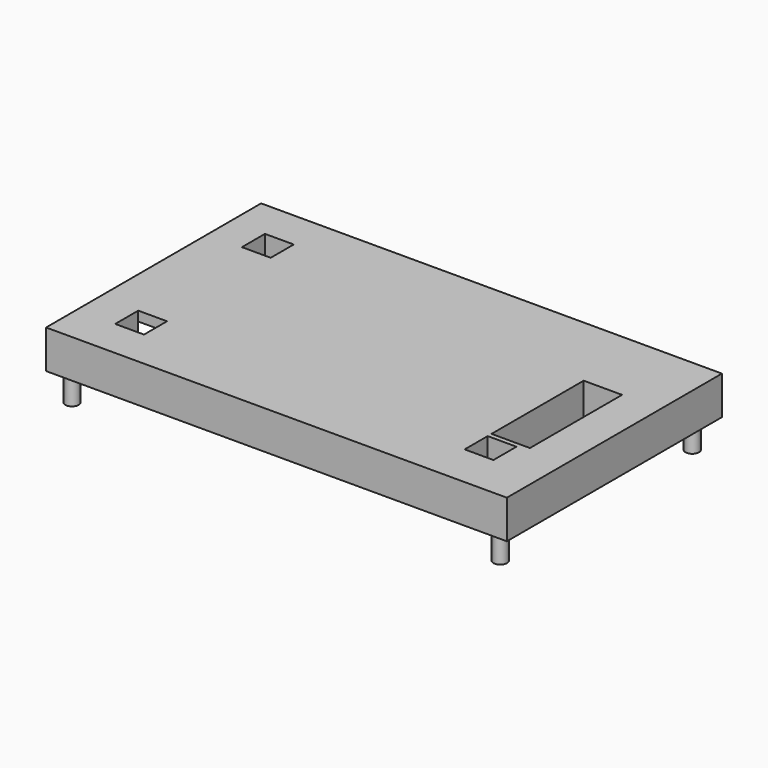
from build123d import *

# Parameters (mm, degrees)
SKETCH_W        = 48
SKETCH_H        = 28
PAD_DEPTH       = 4
SKETCH001_W     = 14
SKETCH001_H     = 3
POCKET_DEPTH    = 15
SKETCH002_W     = 4
SKETCH002_H     = 12
SKETCH002_W_2   = 3
SKETCH002_H_2   = 3
POCKET001_DEPTH = 4.001
SKETCH003_R     = 0.7
PAD001_DEPTH    = 3


with BuildPart() as part:
    # Sketch → Pad (new body)
    with BuildSketch(Plane.XY):
        with Locations((24, 14)):
            Rectangle(SKETCH_W, SKETCH_H)
    extrude(amount=PAD_DEPTH)

    # Sketch001 → Pocket (cut)
    with BuildSketch(Plane(origin=(0, 0, 0), x_dir=(0, -1, 0), z_dir=(-1, 0, 0))):
        with Locations((-14, 1.5)):
            Rectangle(SKETCH001_W, SKETCH001_H)
    extrude(amount=-POCKET_DEPTH, mode=Mode.SUBTRACT)

    # Sketch002 → Pocket001 (cut, through all)
    with BuildSketch(Plane.XY.offset(4)):
        with Locations((42, 14)):
            Rectangle(SKETCH002_W, SKETCH002_H)
        with Locations((41.5, 6)):
            Rectangle(SKETCH002_W_2, SKETCH002_H_2)
        with Locations((5.5, 5.5)):
            Rectangle(SKETCH002_W_2, SKETCH002_H_2)
        with Locations((5.098741, 22.5)):
            Rectangle(SKETCH002_W_2, SKETCH002_H_2)
    extrude(amount=-POCKET001_DEPTH, mode=Mode.SUBTRACT)

    # Sketch003 → Pad001 (new body)
    with BuildSketch(Plane(origin=(0, 0, 0), x_dir=(1, 0, 0), z_dir=(0, 0, -1))):
        with Locations((1.5, -1.5)):
            Circle(SKETCH003_R)
        with Locations((1.5, -26.5)):
            Circle(SKETCH003_R)
        with Locations((46.109886, -26.5)):
            Circle(SKETCH003_R)
        with Locations((46.109886, -1.5)):
            Circle(SKETCH003_R)
    extrude(amount=PAD001_DEPTH)


solid = part.part
